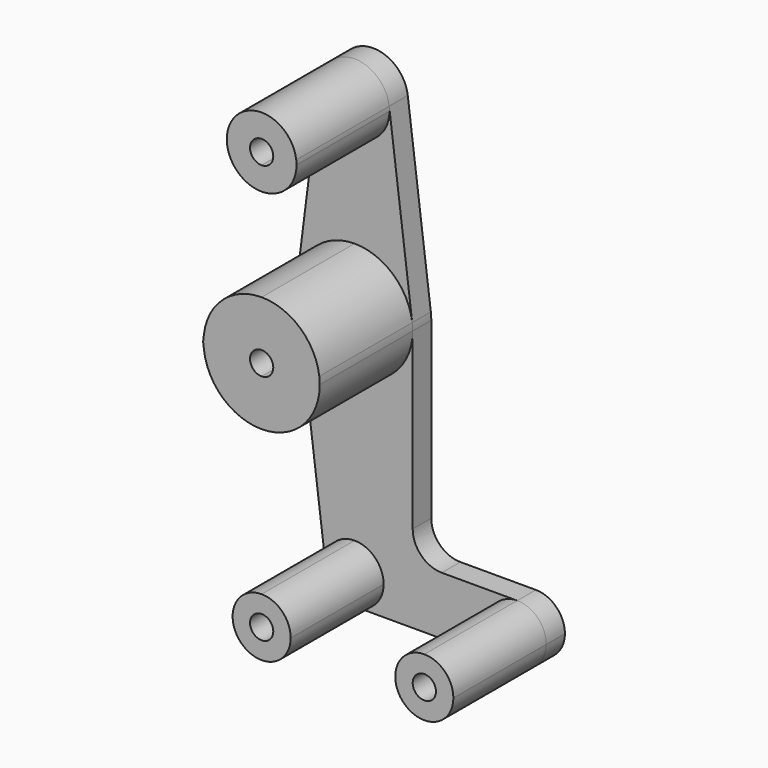
from build123d import *

# Parameters (mm, degrees)
F1_DEPTH = 38.1
F2_DEPTH = 6.35


with BuildPart() as f1:
    # F0 (on Front) → F1 (new body)
    with BuildSketch(Plane.XZ):
        with BuildLine():
            Line((-16.0004960241, 0), (-15.7504882823, -1.9843749313))
            ThreePointArc((-15.7504882823, -1.9843749313), (-15.875, -3.16e-08), (-15.7504882902, 1.9843748686))
            Line((-15.7504882902, 1.9843748686), (-16.0004960241, 0))
        make_face()
        with BuildLine():
            ThreePointArc((0, -15.875), (11.2253201513, -11.2253201513), (15.875, 0))
            ThreePointArc((15.875, 0), (15.8438414895, 0.9941387503), (15.7504882702, 1.9843750273))
            ThreePointArc((15.7504882702, 1.9843750273), (10.5003255055, 11.9062500091), (0, 15.875))
            Line((0, 15.875), (0, 3.175))
            ThreePointArc((0, 3.175), (2.2450640303, 2.2450640303), (3.175, 0))
            ThreePointArc((3.175, 0), (2.2450640303, -2.2450640303), (0, -3.175))
            Line((0, -3.175), (0, -15.875))
        make_face()
        with BuildLine():
            ThreePointArc((-15.7504882823, -1.9843749313), (-10.5003255418, -11.9062499771), (0, -15.875))
            Line((0, -15.875), (0, -3.175))
            ThreePointArc((0, -3.175), (-3.175, 0), (0, 3.175))
            Line((0, 3.175), (0, 15.875))
            ThreePointArc((0, 15.875), (-10.5003255655, 11.9062499562), (-15.7504882902, 1.9843748686))
            ThreePointArc((-15.7504882902, 1.9843748686), (-15.875, -3.16e-08), (-15.7504882823, -1.9843749313))
        make_face()
    extrude(amount=F1_DEPTH)


with BuildPart() as f1b:
    # F0 (on Front) → F1, piece 2 (new body)
    with BuildSketch(Plane.XZ):
        with BuildLine():
            ThreePointArc((9.525, 50.8), (9.5063048942, 51.396483242), (9.4502929642, 51.990625))
            ThreePointArc((9.4502929642, 51.990625), (0, 60.325), (-9.4502929642, 51.990625))
            ThreePointArc((-9.4502929642, 51.990625), (-7.14375, 44.4998046905), (0, 41.275))
            ThreePointArc((0, 41.275), (6.7351920908, 44.0648079092), (9.525, 50.8))
        make_face()
        with BuildLine():
            ThreePointArc((3.175, 50.8), (2.2450640303, 48.5549359697), (0, 47.625))
            ThreePointArc((0, 47.625), (-2.2450640303, 53.0450640303), (3.175, 50.8))
        make_face(mode=Mode.SUBTRACT)
    extrude(amount=F1_DEPTH)


with BuildPart() as f1c:
    # F0 (on Front) → F1, piece 3 (new body)
    with BuildSketch(Plane.XZ):
        with BuildLine():
            ThreePointArc((52.3875, -63.5), (50.0626600757, -57.8873399243), (44.45, -55.5625))
            ThreePointArc((44.45, -55.5625), (38.8373399243, -57.8873399243), (36.5125, -63.5))
            ThreePointArc((36.5125, -63.5), (38.8373399243, -69.1126600757), (44.45, -71.4375))
            ThreePointArc((44.45, -71.4375), (50.0626600757, -69.1126600757), (52.3875, -63.5))
        make_face()
        with BuildLine():
            ThreePointArc((47.625, -63.5), (44.45, -66.675), (41.275, -63.5))
            ThreePointArc((41.275, -63.5), (44.45, -60.325), (47.625, -63.5))
        make_face(mode=Mode.SUBTRACT)
    extrude(amount=F1_DEPTH)


with BuildPart() as f1d:
    # F0 (on Front) → F1, piece 4 (new body)
    with BuildSketch(Plane.XZ):
        with BuildLine():
            Line((0, -60.325), (0, -55.5625))
            ThreePointArc((0, -55.5625), (-5.953125, -58.2498372421), (-7.8752441368, -64.4921875))
            ThreePointArc((-7.8752441368, -64.4921875), (-5.2501627579, -69.453125), (0, -71.4375))
            ThreePointArc((0, -71.4375), (5.6126600757, -69.1126600757), (7.9375, -63.5))
            Line((7.9375, -63.5), (3.175, -63.5))
            ThreePointArc((3.175, -63.5), (-2.2450640303, -65.7450640303), (0, -60.325))
        make_face()
        with BuildLine():
            ThreePointArc((7.9375, -63.5), (5.6126600757, -57.8873399243), (0, -55.5625))
            Line((0, -55.5625), (0, -60.325))
            ThreePointArc((0, -60.325), (2.2450640303, -61.2549359697), (3.175, -63.5))
            Line((3.175, -63.5), (7.9375, -63.5))
        make_face()
    extrude(amount=F1_DEPTH)


with BuildPart() as f2:
    # F0 (on Front) → F2 (new body)
    with BuildSketch(Plane.XZ):
        with BuildLine():
            ThreePointArc((0, -15.875), (11.2253201513, -11.2253201513), (15.875, 0))
            ThreePointArc((15.875, 0), (15.8438414895, 0.9941387503), (15.7504882702, 1.9843750273))
            ThreePointArc((15.7504882702, 1.9843750273), (10.5003255055, 11.9062500091), (0, 15.875))
            Line((0, 15.875), (0, 3.175))
            ThreePointArc((0, 3.175), (2.2450640303, 2.2450640303), (3.175, 0))
            ThreePointArc((3.175, 0), (2.2450640303, -2.2450640303), (0, -3.175))
            Line((0, -3.175), (0, -15.875))
        make_face()
        with BuildLine():
            Line((15.875, -47.625), (15.875, 0))
            ThreePointArc((15.875, 0), (11.2253201513, -11.2253201513), (0, -15.875))
            Line((0, -15.875), (0, -55.5625))
            ThreePointArc((0, -55.5625), (5.6126600757, -57.8873399243), (7.9375, -63.5))
            Line((7.9375, -63.5), (36.5125, -63.5))
            ThreePointArc((36.5125, -63.5), (38.8373399243, -57.8873399243), (44.45, -55.5625))
            Line((44.45, -55.5625), (23.8125, -55.5625))
            ThreePointArc((23.8125, -55.5625), (18.1998399243, -53.2376600757), (15.875, -47.625))
        make_face()
        with BuildLine():
            ThreePointArc((0, 15.875), (10.5003255055, 11.9062500091), (15.7504882702, 1.9843750273))
            Line((15.7504882702, 1.9843750273), (9.4502929642, 51.990625))
            ThreePointArc((9.4502929642, 51.990625), (9.5063048942, 51.396483242), (9.525, 50.8))
            ThreePointArc((9.525, 50.8), (6.7351920908, 44.0648079092), (0, 41.275))
            Line((0, 41.275), (0, 15.875))
        make_face()
        with BuildLine():
            Line((0, -55.5625), (0, -15.875))
            ThreePointArc((0, -15.875), (-10.5003255418, -11.9062499771), (-15.7504882823, -1.9843749313))
            Line((-15.7504882823, -1.9843749313), (-7.8752441368, -64.4921875))
            ThreePointArc((-7.8752441368, -64.4921875), (-5.953125, -58.2498372421), (0, -55.5625))
        make_face()
        with BuildLine():
            ThreePointArc((-15.7504882823, -1.9843749313), (-10.5003255418, -11.9062499771), (0, -15.875))
            Line((0, -15.875), (0, -3.175))
            ThreePointArc((0, -3.175), (-3.175, 0), (0, 3.175))
            Line((0, 3.175), (0, 15.875))
            ThreePointArc((0, 15.875), (-10.5003255655, 11.9062499562), (-15.7504882902, 1.9843748686))
            ThreePointArc((-15.7504882902, 1.9843748686), (-15.875, -3.16e-08), (-15.7504882823, -1.9843749313))
        make_face()
        with BuildLine():
            ThreePointArc((-15.7504882902, 1.9843748686), (-10.5003255655, 11.9062499562), (0, 15.875))
            Line((0, 15.875), (0, 41.275))
            ThreePointArc((0, 41.275), (-7.14375, 44.4998046905), (-9.4502929642, 51.990625))
            Line((-9.4502929642, 51.990625), (-15.7504882902, 1.9843748686))
        make_face()
        with BuildLine():
            ThreePointArc((9.525, 50.8), (9.5063048942, 51.396483242), (9.4502929642, 51.990625))
            ThreePointArc((9.4502929642, 51.990625), (0, 60.325), (-9.4502929642, 51.990625))
            ThreePointArc((-9.4502929642, 51.990625), (-7.14375, 44.4998046905), (0, 41.275))
            ThreePointArc((0, 41.275), (6.7351920908, 44.0648079092), (9.525, 50.8))
        make_face()
        with BuildLine():
            ThreePointArc((3.175, 50.8), (2.2450640303, 48.5549359697), (0, 47.625))
            ThreePointArc((0, 47.625), (-2.2450640303, 53.0450640303), (3.175, 50.8))
        make_face(mode=Mode.SUBTRACT)
        with BuildLine():
            Line((-16.0004960241, 0), (-15.7504882823, -1.9843749313))
            ThreePointArc((-15.7504882823, -1.9843749313), (-15.875, -3.16e-08), (-15.7504882902, 1.9843748686))
            Line((-15.7504882902, 1.9843748686), (-16.0004960241, 0))
        make_face()
        with BuildLine():
            Line((0, -60.325), (0, -55.5625))
            ThreePointArc((0, -55.5625), (-5.953125, -58.2498372421), (-7.8752441368, -64.4921875))
            ThreePointArc((-7.8752441368, -64.4921875), (-5.2501627579, -69.453125), (0, -71.4375))
            ThreePointArc((0, -71.4375), (5.6126600757, -69.1126600757), (7.9375, -63.5))
            Line((7.9375, -63.5), (3.175, -63.5))
            ThreePointArc((3.175, -63.5), (-2.2450640303, -65.7450640303), (0, -60.325))
        make_face()
        with BuildLine():
            Line((36.5125, -63.5), (7.9375, -63.5))
            ThreePointArc((7.9375, -63.5), (5.6126600757, -69.1126600757), (0, -71.4375))
            Line((0, -71.4375), (44.45, -71.4375))
            ThreePointArc((44.45, -71.4375), (38.8373399243, -69.1126600757), (36.5125, -63.5))
        make_face()
        with BuildLine():
            ThreePointArc((52.3875, -63.5), (50.0626600757, -57.8873399243), (44.45, -55.5625))
            ThreePointArc((44.45, -55.5625), (38.8373399243, -57.8873399243), (36.5125, -63.5))
            ThreePointArc((36.5125, -63.5), (38.8373399243, -69.1126600757), (44.45, -71.4375))
            ThreePointArc((44.45, -71.4375), (50.0626600757, -69.1126600757), (52.3875, -63.5))
        make_face()
        with BuildLine():
            ThreePointArc((47.625, -63.5), (44.45, -66.675), (41.275, -63.5))
            ThreePointArc((41.275, -63.5), (44.45, -60.325), (47.625, -63.5))
        make_face(mode=Mode.SUBTRACT)
    extrude(amount=F2_DEPTH)


solid = Compound([f1.part, f1b.part, f1c.part, f1d.part, f2.part])
